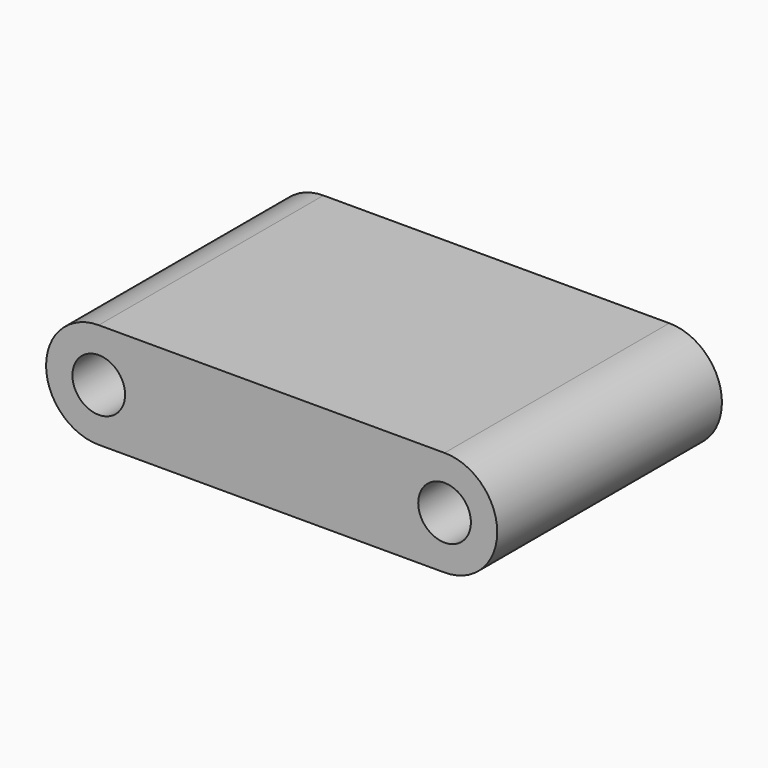
from build123d import *

# Parameters (mm, degrees)
F0_R     = 1.5
F1_DEPTH = 8


with BuildPart() as f1:
    # F0 (on Front) → F1 (new body, symmetric)
    with BuildSketch(Plane.XZ):
        with BuildLine():
            ThreePointArc((11.35, 0), (9.85, 1.5), (8.35, 0))
            ThreePointArc((8.35, 0), (9.85, -1.5), (11.35, 0))
        make_face()
        with Locations((-9.85, 0)):
            Circle(F0_R)
        with BuildLine():
            Line((9.85, 3), (-9.85, 3))
            ThreePointArc((-9.85, 3), (-12.85, 0), (-9.85, -3))
            Line((-9.85, -3), (9.85, -3))
            ThreePointArc((9.85, -3), (12.85, 0), (9.85, 3))
        make_face()
        with Locations((-9.85, 0)):
            Circle(F0_R, mode=Mode.SUBTRACT)
        with BuildLine():
            ThreePointArc((11.35, 0), (9.85, -1.5), (8.35, 0))
            ThreePointArc((8.35, 0), (9.85, 1.5), (11.35, 0))
        make_face(mode=Mode.SUBTRACT)
    extrude(amount=F1_DEPTH, both=True)


solid = f1.part
